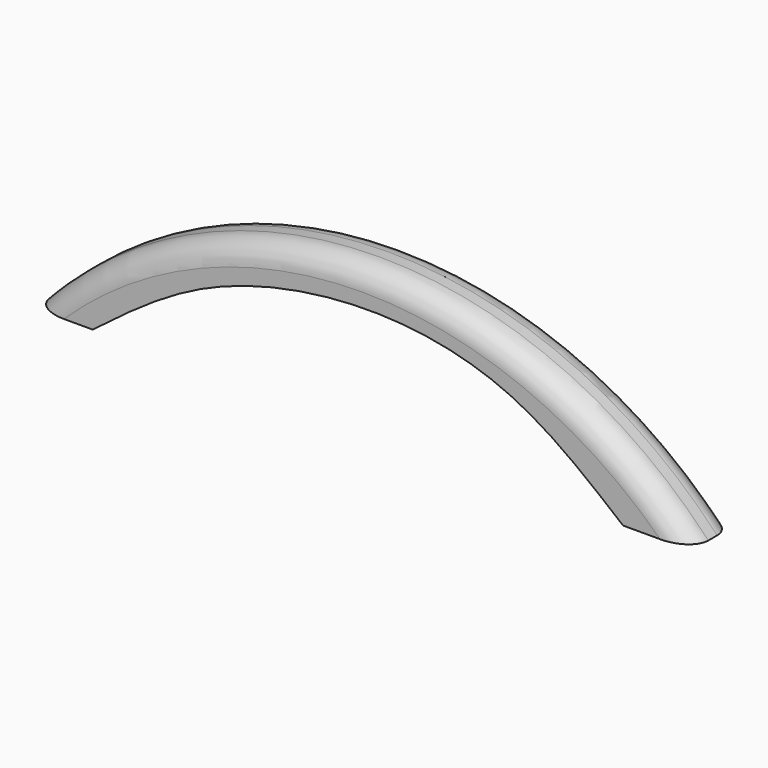
from build123d import *

# Parameters (mm, degrees)
F1_DEPTH = 12.7
F2_R     = 5.08


with BuildPart() as f1:
    # F0 (on Front) → F1 (new body)
    with BuildSketch(Plane.XZ):
        with BuildLine():
            Line((60.4774281383, 0), (76.2, 0))
            ThreePointArc((76.2, 0), (0, 33.0680572014), (-76.2, 0))
            Line((-76.2, 0), (-62.4388568103, 0))
            add(Edge.make_bspline(
                [(-62.4388568103, 0), (-54.1821398565, 6.3114002898), (-37.0060775903, 19.4407112462), (-0.0522042487, 27.1236463975), (35.1513242907, 20.8675596011), (52.1404377983, 6.8693014867), (60.4774281383, 0)],
                knots=[0, 0, 0, 0, 0.2416351764, 0.5026623607, 0.7559437641, 1, 1, 1, 1], degree=3))
        make_face()
    extrude(amount=F1_DEPTH)

    # F2
    f2_edges = [f1.edges().sort_by_distance(p)[0] for p in [
        (0, -12.7, 33.068057),
        (0, 0, 33.068057),
    ]]
    fillet(f2_edges, radius=F2_R)


solid = f1.part
